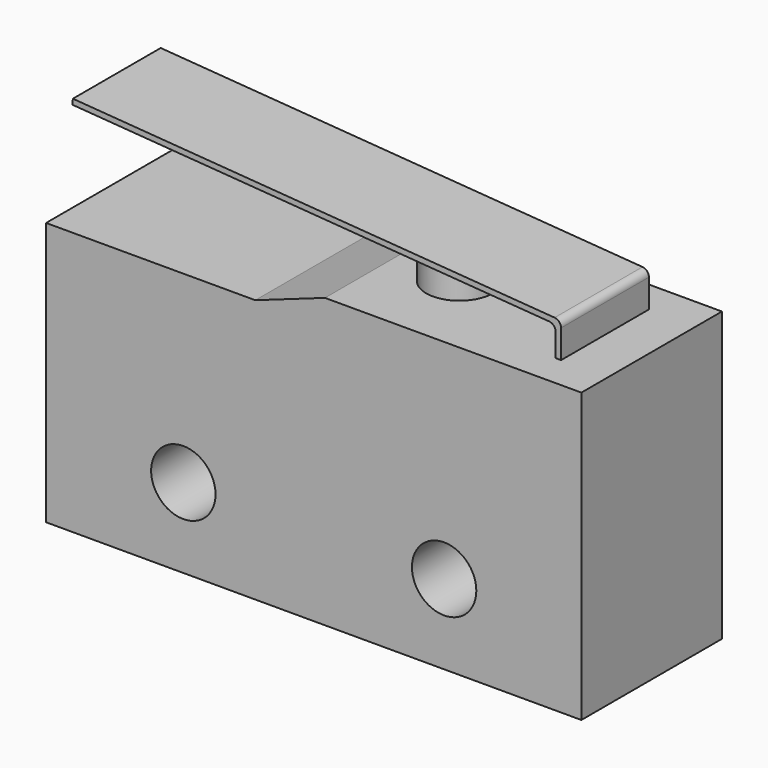
from build123d import *

# Parameters (mm, degrees)
F0_W      = 19.5
F0_H      = 10.5
F1_DEPTH  = 6.4
F2_R      = 1.1728484487
F3_DEPTH  = 25.4
F5_DEPTH  = 25.4
F6_R      = 1.2132701797
F7_DEPTH  = 1.27
F10_DEPTH = 4
F11_R     = 0.254


with BuildPart() as f1:
    # F0 (on Front) → F1 (new body)
    with BuildSketch(Plane.XZ):
        with Locations((9.75, 5.25)):
            Rectangle(F0_W, F0_H)
    extrude(amount=F1_DEPTH)

    # F2 (on face) → F3 (cut)
    with BuildSketch(Plane.XZ.offset(6.4)):
        with Locations((5, 2.9)):
            Circle(F2_R)
        with Locations((14.5, 2.9)):
            Circle(F2_R)
    extrude(amount=-F3_DEPTH, mode=Mode.SUBTRACT)

    # F4 (on face) → F5 (cut)
    with BuildSketch(Plane.XZ.offset(6.4)):
        Polygon((10.16, 10.5), (0, 10.5), (0, 9.6), (7.62, 9.6), align=None)
    extrude(amount=-F5_DEPTH, mode=Mode.SUBTRACT)

    # F6 (on face) → F7 (join)
    with BuildSketch(Plane.XY.offset(10.5)):
        with Locations((12.5, -3.2)):
            Circle(F6_R)
    extrude(amount=F7_DEPTH)

    # F9 (on offset) → F10 (join)
    with BuildSketch(Plane.XZ.offset(5.2)):
        Polygon((17.6, 11.5844129181), (17.6, 10.5), (17.8, 10.5), (17.8, 11.77), (0.0149307994, 13.1014418994), (0, 12.902), align=None)
    extrude(amount=-F10_DEPTH)

    # F11
    f11_edges = [f1.edges().sort_by_distance(p)[0] for p in [
        (17.8, -3.2, 11.77),
        (17.6, -3.2, 11.584413),
    ]]
    fillet(f11_edges, radius=F11_R)


solid = f1.part
